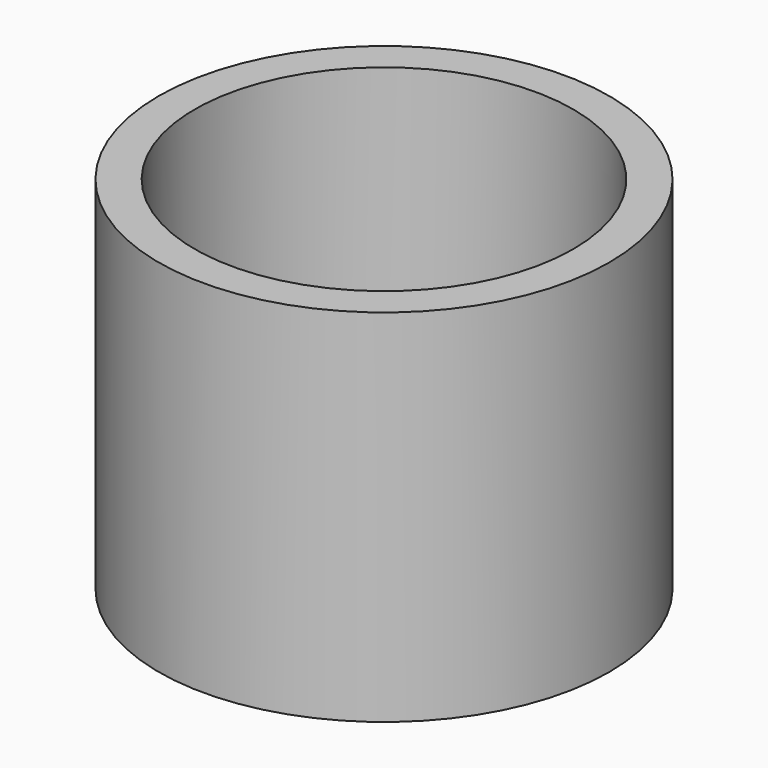
from build123d import *

# Parameters (mm, degrees)
SKETCH_R   = 3.75
SKETCH_R_2 = 3.15
PAD_DEPTH  = 6


with BuildPart() as part:
    # Sketch → Pad (new body)
    with BuildSketch(Plane.XY):
        Circle(SKETCH_R)
        Circle(SKETCH_R_2, mode=Mode.SUBTRACT)
    extrude(amount=PAD_DEPTH)


solid = part.part
